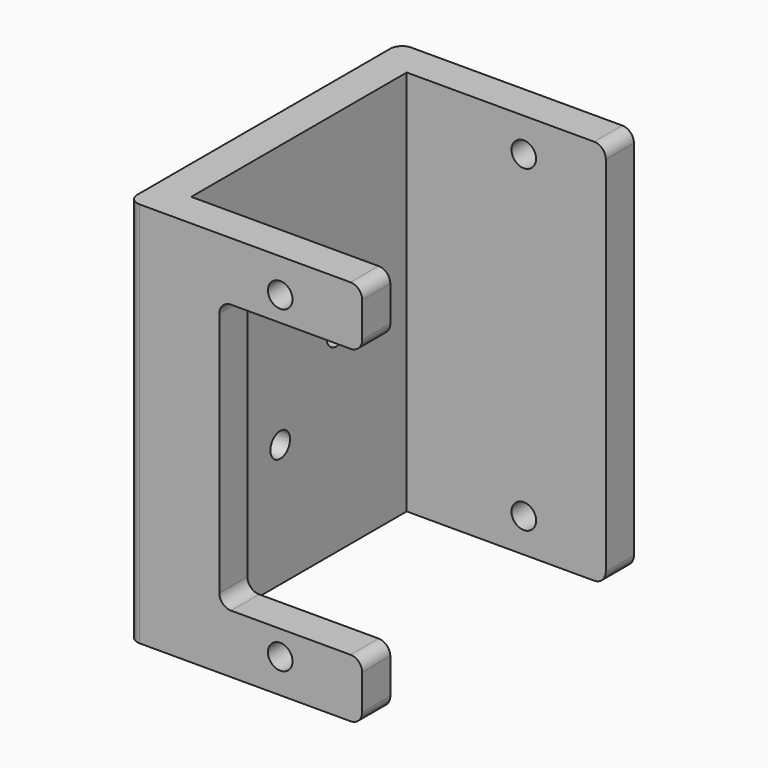
from build123d import *

# Parameters (mm, degrees)
PAD_DEPTH       = 16.5
SKETCH001_R     = 1.05
POCKET_DEPTH    = 33
SKETCH002_W     = 12.2
SKETCH002_H     = 23
POCKET001_DEPTH = 5
SKETCH003_R     = 1.05
POCKET002_DEPTH = 5
FILLET_R        = 1


with BuildPart() as part:
    # Sketch → Pad (new body, symmetric)
    with BuildSketch(Plane.XY):
        Polygon((0, 0), (0, 29), (20, 29), (20, 26), (3, 26), (3, 3), (20, 3), (20, 0), align=None)
    extrude(amount=PAD_DEPTH, both=True)

    # Sketch001 → Pocket (cut)
    with BuildSketch(Plane.XZ):
        with Locations((13, 13.6)):
            Circle(SKETCH001_R)
        with Locations((13, -13.6)):
            Circle(SKETCH001_R)
    extrude(amount=-POCKET_DEPTH, mode=Mode.SUBTRACT)

    # Sketch002 (on Face2 of Pocket) → Pocket001 (cut)
    with BuildSketch(Plane.XZ):
        with Locations((13.9, 0)):
            Rectangle(SKETCH002_W, SKETCH002_H)
    extrude(amount=-POCKET001_DEPTH, mode=Mode.SUBTRACT)

    # Sketch003 (on Face1 of Pocket001) → Pocket002 (cut)
    with BuildSketch(Plane(origin=(0, 0, 0), x_dir=(0, -1, 0), z_dir=(-1, 0, 0))):
        with Locations((-12.5, 6)):
            Circle(SKETCH003_R)
        with Locations((-12.5, -6)):
            Circle(SKETCH003_R)
        with Locations((-6.5, 0)):
            Circle(SKETCH003_R)
        with Locations((-18.5, 0)):
            Circle(SKETCH003_R)
    extrude(amount=-POCKET002_DEPTH, mode=Mode.SUBTRACT)

    # Fillet
    fillet_edges = [part.edges().sort_by_distance(p)[0] for p in [
        (20, 27.5, 16.5),
        (20, 27.5, -16.5),
        (20, 1.5, 16.5),
        (20, 1.5, -16.5),
        (0, 0, 0),
        (0, 29, 0),
        (20, 1.5, -11.5),
        (20, 1.5, 11.5),
        (7.8, 1.5, -11.5),
        (7.8, 1.5, 11.5),
    ]]
    fillet(fillet_edges, radius=FILLET_R)


solid = part.part
